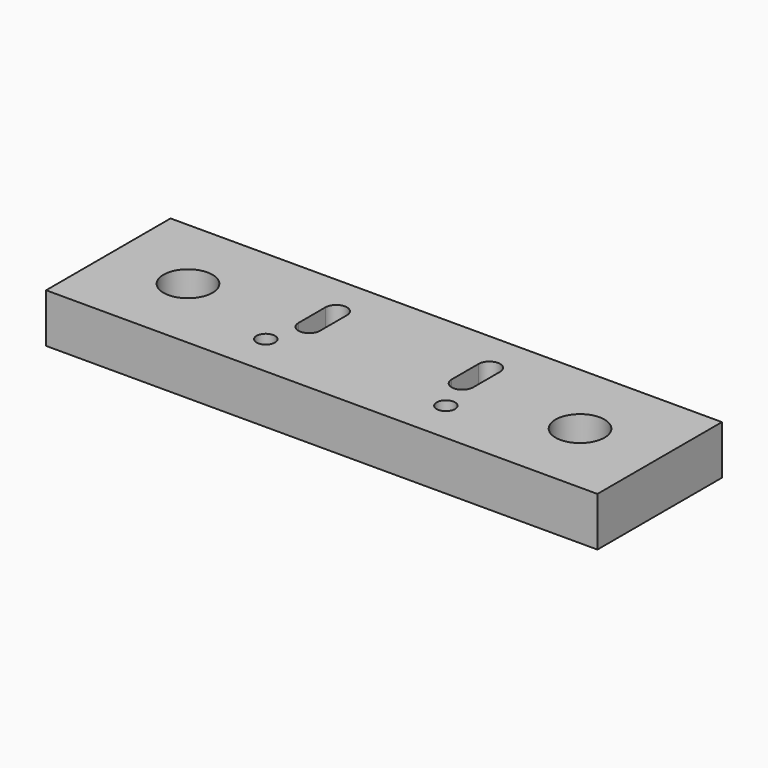
from build123d import *

# Parameters (mm, degrees)
F0_W     = 90
F0_H     = 25.4
F0_R     = 4
F0_R_2   = 1.5
F1_DEPTH = 8


with BuildPart() as f1:
    # F0 (on Top) → F1 (new body)
    with BuildSketch(Plane.XY):
        with Locations((0, -5.5)):
            Rectangle(F0_W, F0_H)
        with Locations((-32, -5.5)):
            Circle(F0_R, mode=Mode.SUBTRACT)
        with Locations((-14.7, -11.25)):
            Circle(F0_R_2, mode=Mode.SUBTRACT)
        with Locations((14.7, -11.25)):
            Circle(F0_R_2, mode=Mode.SUBTRACT)
        with Locations((32, -5.5)):
            Circle(F0_R, mode=Mode.SUBTRACT)
        with BuildLine():
            ThreePointArc((-10.75, -5.125), (-12.5, -6.875), (-14.25, -5.125))
            Line((-14.25, -5.125), (-14.25, 0.375))
            ThreePointArc((-14.25, 0.375), (-12.5, 2.125), (-10.75, 0.375))
            Line((-10.75, 0.375), (-10.75, -5.125))
        make_face(mode=Mode.SUBTRACT)
        with BuildLine():
            Line((10.75, -5.125), (10.75, 0.375))
            ThreePointArc((10.75, 0.375), (12.5, 2.125), (14.25, 0.375))
            Line((14.25, 0.375), (14.25, -5.125))
            ThreePointArc((14.25, -5.125), (12.5, -6.875), (10.75, -5.125))
        make_face(mode=Mode.SUBTRACT)
    extrude(amount=F1_DEPTH)


solid = f1.part
